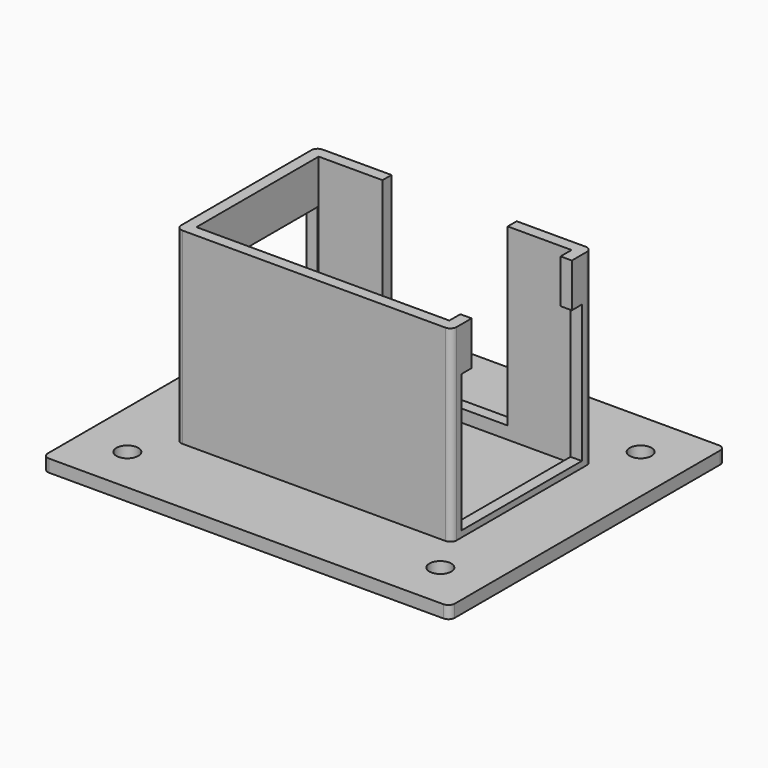
from build123d import *

# Parameters (mm, degrees)
SKETCH057_W         = 65
SKETCH057_H         = 55
PAD015_DEPTH        = 2
SKETCH058_R         = 1.75
HOLE023_DEPTH       = 25
SKETCH059_W         = 44
SKETCH059_H         = 28
PAD016_DEPTH        = 30
SKETCH060_W         = 40.4
SKETCH060_H         = 24.4
POCKET018_DEPTH     = 30
SKETCH061_W         = 20
SKETCH061_H         = 20
SKETCH061_W_2       = 40
POCKET019_DEPTH     = 28
SKETCH062_W         = 24
SKETCH062_H         = 22
POCKET020_DEPTH     = 50
SKETCH063_R         = 1.75
HOLE024_DEPTH       = 25
HOLE025_D           = 3.5
HOLE025_DEPTH       = 25
HOLE025_CSINK_D     = 8
HOLE025_CSINK_ANGLE = 90
HOLE025_TIPS_R      = 1.75
FILLET022_R         = 1
FILLET023_R         = 1


with BuildPart() as part:
    # Sketch057 → Pad015 (new body)
    with BuildSketch(Plane.XY):
        Rectangle(SKETCH057_W, SKETCH057_H)
    extrude(amount=PAD015_DEPTH)

    # Sketch058 (on Face6 of Pad015) → Hole023 (cut)
    with BuildSketch(Plane.XY.offset(2)):
        with Locations((25, 20)):
            Circle(SKETCH058_R)
        with Locations((25, -20)):
            Circle(SKETCH058_R)
    hole023 = extrude(amount=-HOLE023_DEPTH, mode=Mode.SUBTRACT)

    # Mirrored028: Hole023 across Sketch058 V_Axis
    add(hole023.mirror(Plane(origin=(0, 0, 2), x_dir=(0, 0, 1), z_dir=(1, 0, 0))), mode=Mode.SUBTRACT)

    # Sketch059 (on Face5 of Mirrored028) → Pad016 (join)
    with BuildSketch(Plane.XY.offset(2)):
        Rectangle(SKETCH059_W, SKETCH059_H)
    extrude(amount=PAD016_DEPTH)

    # Sketch060 (on Face15 of Pad016) → Pocket018 (cut)
    with BuildSketch(Plane.XY.offset(32)):
        Rectangle(SKETCH060_W, SKETCH060_H)
    extrude(amount=-POCKET018_DEPTH, mode=Mode.SUBTRACT)

    # Sketch061 (on Face15 of Pocket018) → Pocket019 (cut)
    with BuildSketch(Plane.XY.offset(32)):
        with Locations((0, 10)):
            Rectangle(SKETCH061_W, SKETCH061_H)
        with Locations((20, 0)):
            Rectangle(SKETCH061_W_2, SKETCH061_H)
    extrude(amount=-POCKET019_DEPTH, mode=Mode.SUBTRACT)

    # Sketch062 (on Face11 of Pocket019) → Pocket020 (cut)
    with BuildSketch(Plane(origin=(-22, 0, 0), x_dir=(0, -1, 0), z_dir=(-1, 0, 0))):
        with Locations((0, 14)):
            Rectangle(SKETCH062_W, SKETCH062_H)
    extrude(amount=-POCKET020_DEPTH, mode=Mode.SUBTRACT)

    # Sketch063 (on Face35 of Pocket020) → Hole024 (cut)
    with BuildSketch(Plane.XY.offset(2)):
        with Locations((-16.2, 8.2)):
            Circle(SKETCH063_R)
        with Locations((-16.2, -8.2)):
            Circle(SKETCH063_R)
    extrude(amount=-HOLE024_DEPTH, mode=Mode.SUBTRACT)

    # Hole025
    with Locations(Plane(origin=(0, 0, 0), x_dir=(1, 0, 0), z_dir=(0, 0, -1))):
        with Locations((-16.2, -8.2), (-16.2, 8.2)):
            CounterSinkHole(HOLE025_D / 2, HOLE025_CSINK_D / 2, depth=HOLE025_DEPTH, counter_sink_angle=HOLE025_CSINK_ANGLE)

    # Hole025 tips → Hole025 tip 1 section 0
    with BuildSketch(Plane(origin=(0, 0, 25), x_dir=(1, 0, 0), z_dir=(0, 0, -1)), mode=Mode.PRIVATE) as hole025_tip_1_s0:
        with Locations((-16.2, -8.2)):
            Circle(HOLE025_TIPS_R)
    loft([hole025_tip_1_s0.sketch, Vertex(-16.2, 8.2, 26.051506)], mode=Mode.SUBTRACT)

    # Hole025 tips → Hole025 tip 2 section 0
    with BuildSketch(Plane(origin=(0, 0, 25), x_dir=(1, 0, 0), z_dir=(0, 0, -1)), mode=Mode.PRIVATE) as hole025_tip_2_s0:
        with Locations((-16.2, 8.2)):
            Circle(HOLE025_TIPS_R)
    loft([hole025_tip_2_s0.sketch, Vertex(-16.2, -8.2, 26.051506)], mode=Mode.SUBTRACT)

    # Fillet022
    fillet022_edges = [part.edges().sort_by_distance(p)[0] for p in [
        (32.5, -27.5, 1),
        (32.5, 27.5, 1),
        (-32.5, -27.5, 1),
        (-32.5, 27.5, 1),
    ]]
    fillet(fillet022_edges, radius=FILLET022_R)

    # Fillet023
    fillet023_edges = [part.edges().sort_by_distance(p)[0] for p in [
        (22, 14, 17),
        (-22, 14, 17),
        (22, -14, 17),
        (-22, -14, 17),
    ]]
    fillet(fillet023_edges, radius=FILLET023_R)


solid = part.part
